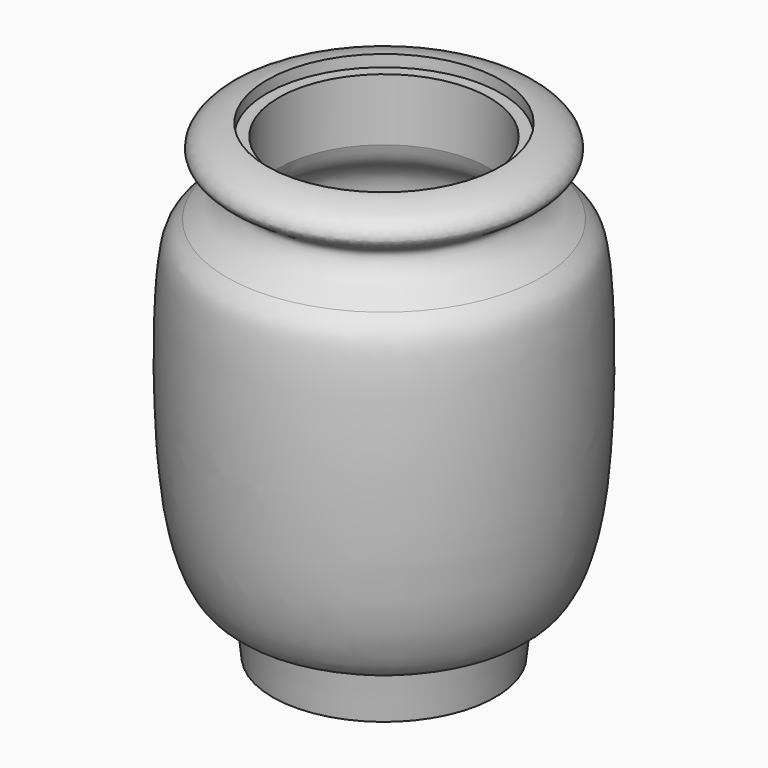
from build123d import *


with BuildPart() as f1:
    # F0 (on Front) → F1 (revolve)
    with BuildSketch(Plane.XZ):
        with BuildLine():
            Line((-50.8, 12.7), (-38.1, 12.7))
            Line((-38.1, 12.7), (-38.1, 31.75))
            add(Edge.make_bspline(
                [(-57.1462656052, 214.6740767193), (-59.1791938691, 206.4657785568), (-62.6950145123, 201.9150055899), (-83.9725929419, 191.1758268104), (-81.7443419875, 161.6263158362), (-84.6868020565, 102.0020472742), (-74.3154134501, 44.0045205115), (-55.8955026796, 36.3552876567), (-50.8060806476, 34.5762356906), (-38.1, 31.75)],
                knots=[0, 0, 0, 0, 0.1043837637, 0.2211461652, 0.359007908, 0.575062369, 0.7772120017, 0.8782352298, 1, 1, 1, 1], degree=3))
            Line((-57.1462656052, 214.6740767193), (-57.1462656052, 248.3894495755))
            Line((-57.1462656052, 248.3894495755), (-63.4962656052, 248.3894495755))
            Line((-63.4962656052, 248.3894495755), (-63.4962656052, 254.7394495755))
            add(Edge.make_bspline(
                [(-85.4716971517, 208.8228464127), (-79.8640849694, 213.228592445), (-73.2918993363, 215.1769851859), (-66.3532398089, 227.7402729948), (-73.2760800311, 232.883571341), (-87.6450404743, 240.3353415523), (-80.7959964233, 250.9118224602), (-70.6249718462, 253.4614744477), (-66.7891470079, 254.7890299306), (-63.4962656052, 254.7394495755)],
                knots=[0, 0, 0, 0, 0.1717753988, 0.3173084488, 0.4387506149, 0.6038315597, 0.7369744976, 0.8777005649, 1, 1, 1, 1], degree=3))
            add(Edge.make_bspline(
                [(-85.4716971517, 208.8228464127), (-91.4470612347, 203.831740195), (-96.0463875097, 197.3166842881), (-98.2411778707, 150.4162443361), (-97.103977767, 106.7877189637), (-93.6453150365, 63.7933945229), (-81.1323445186, 29.4788300178), (-66.8325079994, 26.1898097816), (-62.9937204877, 24.8521815788)],
                knots=[0, 0, 0, 0, 0.1176646929, 0.3118341607, 0.5137872091, 0.710022175, 0.8821086822, 1, 1, 1, 1], degree=3))
            Line((-62.9937204877, 24.8521815788), (-60.452, 0))
            Line((-60.452, 0), (-50.8, 0))
            Line((-50.8, 0), (-50.8, 12.7))
        make_face()
    revolve(axis=Axis((0, 0, 107.6636984944), (0, 0, -1)))


solid = f1.part
